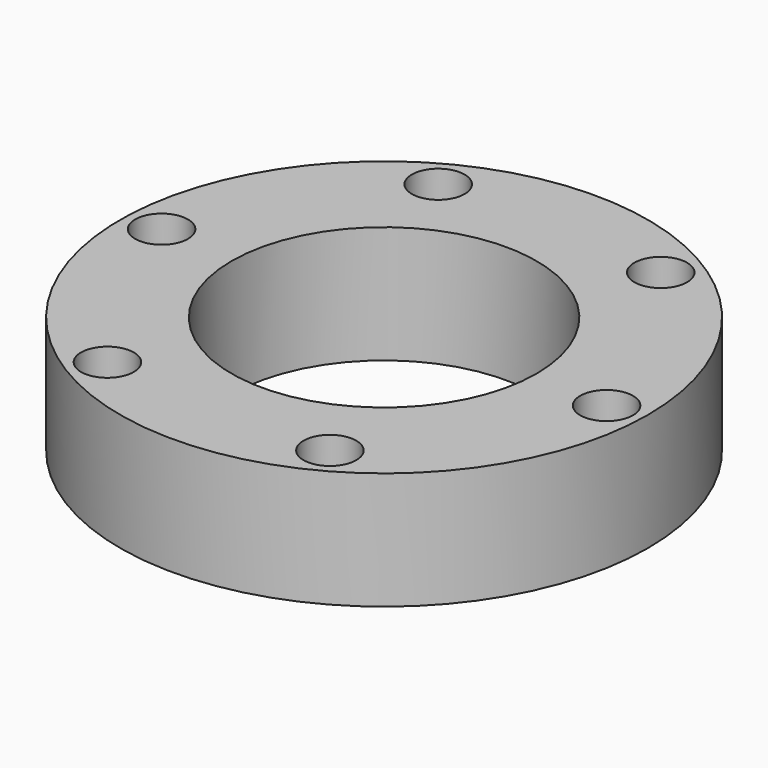
from build123d import *

# Parameters (mm, degrees)
F0_R     = 28.575
F0_R_2   = 2.8575
F0_R_3   = 16.51
F1_DEPTH = 12.7


with BuildPart() as f1:
    # F0 (on Top) → F1 (new body)
    with BuildSketch(Plane.XY):
        with Locations((-112.348132, -25.487775)):
            Circle(F0_R)
        with Locations((-125.47897, -46.513293)):
            Circle(F0_R_2, mode=Mode.SUBTRACT)
        with Locations((-100.704918, -47.372174)):
            Circle(F0_R_2, mode=Mode.SUBTRACT)
        with Locations((-87.57408, -26.346656)):
            Circle(F0_R_2, mode=Mode.SUBTRACT)
        with Locations((-137.122184, -24.628894)):
            Circle(F0_R_2, mode=Mode.SUBTRACT)
        with Locations((-123.991346, -3.603376)):
            Circle(F0_R_2, mode=Mode.SUBTRACT)
        with Locations((-112.348132, -25.487775)):
            Circle(F0_R_3, mode=Mode.SUBTRACT)
        with Locations((-99.217293, -4.462257)):
            Circle(F0_R_2, mode=Mode.SUBTRACT)
    extrude(amount=F1_DEPTH)


solid = f1.part
